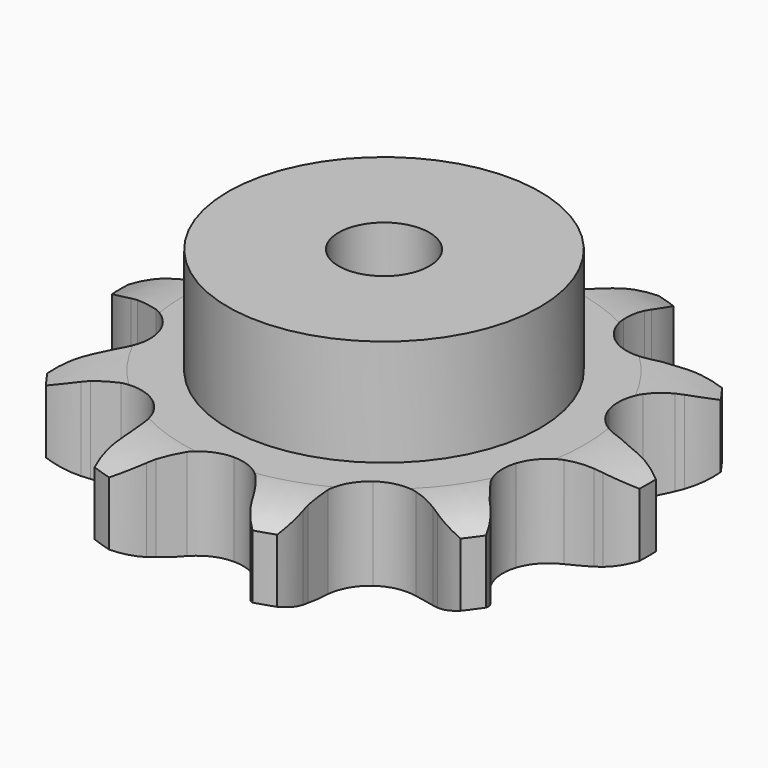
from build123d import *

# Parameters (mm, degrees)
PAD_DEPTH         = 16.2
SKETCH001_R       = 27.5
PAD001_DEPTH      = 35
SKETCH002_R       = 8
POCKET_DEPTH      = 0.0010001
POCKET_DEPTH_BACK = 35.001


with BuildPart() as part:
    # Sprocket → Pad (new body)
    with BuildSketch(Plane.XY):
        with BuildLine():
            ThreePointArc((-15.04933878, 46.3171022085), (-11.7261762277, 43.9540802016), (-9.2573481739, 40.708749649))
            Line((-9.2573481739, 40.708749649), (-8.6055571131, 39.5132802767))
            ThreePointArc((-8.6055571131, 39.5132802767), (-7.4278591747, 37.6064248117), (-6.0511104723, 35.8379132316))
            ThreePointArc((-6.0511104723, 35.8379132316), (-3.324927481, 33.8021758366), (0, 33.0802633142))
            ThreePointArc((0, 33.0802633142), (3.324927481, 33.8021758366), (6.0511104723, 35.8379132316))
            ThreePointArc((6.0511104723, 35.8379132316), (7.4278591747, 37.6064248117), (8.6055571131, 39.5132802767))
            Line((8.6055571131, 39.5132802767), (9.2573481739, 40.708749649))
            ThreePointArc((9.2573481739, 40.708749649), (11.7261762277, 43.9540802016), (15.04933878, 46.3171022085))
            ThreePointArc((15.04933878, 46.3171022085), (16.3488842734, 42.4520713076), (16.4386506874, 38.3754030178))
            Line((16.4386506874, 38.3754030178), (16.2632814658, 37.0251348062))
            ThreePointArc((16.2632814658, 37.0251348062), (16.0952375916, 34.7902228493), (16.1695456635, 32.5502343429))
            ThreePointArc((16.1695456635, 32.5502343429), (17.178497615, 29.3008780369), (19.4440909181, 26.7624951996))
            ThreePointArc((19.4440909181, 26.7624951996), (22.5583432893, 25.3921913604), (25.9604480774, 25.4367273517))
            Line((25.9604480774, 25.4367273517), (30.1873653669, 26.9086956885))
            ThreePointArc((30.1873653669, 26.9086956885), (30.7975616263, 27.2108220204), (31.4173546785, 27.4927375539))
            ThreePointArc((31.4173546785, 27.4927375539), (35.3222359678, 28.6671244028), (39.3996804342, 28.6255434253))
            ThreePointArc((39.3996804342, 28.6255434253), (38.1792266601, 24.734814067), (35.8556437154, 21.3839567657))
            Line((35.8556437154, 21.3839567657), (34.9200992933, 20.3946462777))
            ThreePointArc((34.9200992933, 20.3946462777), (33.4705006549, 18.6853382347), (32.2139849386, 16.829472277))
            ThreePointArc((32.2139849386, 16.829472277), (31.1203204977, 13.6076407273), (31.4611999858, 10.2223635425))
            ThreePointArc((31.4611999858, 10.2223635425), (33.175238691, 7.2832528334), (35.9537768801, 5.319576186))
            Line((35.9537768801, 5.319576186), (40.2386260813, 4.0259039403))
            ThreePointArc((40.2386260813, 4.0259039403), (40.9098706274, 3.9116649149), (41.5769995325, 3.7754341569))
            ThreePointArc((41.5769995325, 3.7754341569), (45.4264021269, 2.4303014419), (48.7006833084, 0))
            ThreePointArc((48.7006833084, 0), (45.4264021269, -2.4303014419), (41.5769995325, -3.7754341569))
            Line((41.5769995325, -3.7754341569), (40.2386260813, -4.0259039403))
            ThreePointArc((40.2386260813, -4.0259039403), (38.0611700885, -4.5567104943), (35.9537768801, -5.319576186))
            ThreePointArc((35.9537768801, -5.319576186), (33.175238691, -7.2832528334), (31.4611999858, -10.2223635425))
            ThreePointArc((31.4611999858, -10.2223635425), (31.1203204977, -13.6076407273), (32.2139849386, -16.829472277))
            Line((32.2139849386, -16.829472277), (34.9200992933, -20.3946462777))
            ThreePointArc((34.9200992933, -20.3946462777), (35.3959995241, -20.8816152355), (35.8556437154, -21.3839567657))
            ThreePointArc((35.8556437154, -21.3839567657), (38.1792266601, -24.734814067), (39.3996804342, -28.6255434253))
            ThreePointArc((39.3996804342, -28.6255434253), (35.3222359678, -28.6671244028), (31.4173546785, -27.4927375539))
            Line((31.4173546785, -27.4927375539), (30.1873653669, -26.9086956885))
            ThreePointArc((30.1873653669, -26.9086956885), (28.1137661999, -26.0582506914), (25.9604480774, -25.4367273517))
            ThreePointArc((25.9604480774, -25.4367273517), (22.5583432893, -25.3921913604), (19.4440909181, -26.7624951996))
            ThreePointArc((19.4440909181, -26.7624951996), (17.178497615, -29.3008780369), (16.1695456635, -32.5502343429))
            Line((16.1695456635, -32.5502343429), (16.2632814658, -37.0251348062))
            ThreePointArc((16.2632814658, -37.0251348062), (16.3620596684, -37.698828106), (16.4386506874, -38.3754030178))
            ThreePointArc((16.4386506874, -38.3754030178), (16.3488842734, -42.4520713076), (15.04933878, -46.3171022085))
            ThreePointArc((15.04933878, -46.3171022085), (11.7261762277, -43.9540802016), (9.2573481739, -40.708749649))
            Line((9.2573481739, -40.708749649), (8.6055571131, -39.5132802767))
            ThreePointArc((8.6055571131, -39.5132802767), (7.4278591747, -37.6064248117), (6.0511104723, -35.8379132316))
            ThreePointArc((6.0511104723, -35.8379132316), (3.324927481, -33.8021758366), (0, -33.0802633142))
            ThreePointArc((0, -33.0802633142), (-3.324927481, -33.8021758366), (-6.0511104723, -35.8379132316))
            Line((-6.0511104723, -35.8379132316), (-8.6055571131, -39.5132802767))
            ThreePointArc((-8.6055571131, -39.5132802767), (-8.9216308547, -40.116369976), (-9.2573481739, -40.708749649))
            ThreePointArc((-9.2573481739, -40.708749649), (-11.7261762277, -43.9540802016), (-15.04933878, -46.3171022085))
            ThreePointArc((-15.04933878, -46.3171022085), (-16.3488842734, -42.4520713076), (-16.4386506874, -38.3754030178))
            Line((-16.4386506874, -38.3754030178), (-16.2632814658, -37.0251348062))
            ThreePointArc((-16.2632814658, -37.0251348062), (-16.0952375916, -34.7902228493), (-16.1695456635, -32.5502343429))
            ThreePointArc((-16.1695456635, -32.5502343429), (-17.178497615, -29.3008780369), (-19.4440909181, -26.7624951996))
            ThreePointArc((-19.4440909181, -26.7624951996), (-22.5583432893, -25.3921913604), (-25.9604480774, -25.4367273517))
            Line((-25.9604480774, -25.4367273517), (-30.1873653669, -26.9086956885))
            ThreePointArc((-30.1873653669, -26.9086956885), (-30.7975616263, -27.2108220204), (-31.4173546785, -27.4927375539))
            ThreePointArc((-31.4173546785, -27.4927375539), (-35.3222359678, -28.6671244028), (-39.3996804342, -28.6255434253))
            ThreePointArc((-39.3996804342, -28.6255434253), (-38.1792266601, -24.734814067), (-35.8556437154, -21.3839567657))
            Line((-35.8556437154, -21.3839567657), (-34.9200992933, -20.3946462777))
            ThreePointArc((-34.9200992933, -20.3946462777), (-33.4705006549, -18.6853382347), (-32.2139849386, -16.829472277))
            ThreePointArc((-32.2139849386, -16.829472277), (-31.1203204977, -13.6076407273), (-31.4611999858, -10.2223635425))
            ThreePointArc((-31.4611999858, -10.2223635425), (-33.175238691, -7.2832528334), (-35.9537768801, -5.319576186))
            Line((-35.9537768801, -5.319576186), (-40.2386260813, -4.0259039403))
            ThreePointArc((-40.2386260813, -4.0259039403), (-40.9098706274, -3.9116649149), (-41.5769995325, -3.7754341569))
            ThreePointArc((-41.5769995325, -3.7754341569), (-45.4264021269, -2.4303014419), (-48.7006833084, 0))
            ThreePointArc((-48.7006833084, 0), (-45.4264021269, 2.4303014419), (-41.5769995325, 3.7754341569))
            Line((-41.5769995325, 3.7754341569), (-40.2386260813, 4.0259039403))
            ThreePointArc((-40.2386260813, 4.0259039403), (-38.0611700885, 4.5567104943), (-35.9537768801, 5.319576186))
            ThreePointArc((-35.9537768801, 5.319576186), (-33.175238691, 7.2832528334), (-31.4611999858, 10.2223635425))
            ThreePointArc((-31.4611999858, 10.2223635425), (-31.1203204977, 13.6076407273), (-32.2139849386, 16.829472277))
            Line((-32.2139849386, 16.829472277), (-34.9200992933, 20.3946462777))
            ThreePointArc((-34.9200992933, 20.3946462777), (-35.3959995241, 20.8816152355), (-35.8556437154, 21.3839567657))
            ThreePointArc((-35.8556437154, 21.3839567657), (-38.1792266601, 24.734814067), (-39.3996804342, 28.6255434253))
            ThreePointArc((-39.3996804342, 28.6255434253), (-35.3222359678, 28.6671244028), (-31.4173546785, 27.4927375539))
            Line((-31.4173546785, 27.4927375539), (-30.1873653669, 26.9086956885))
            ThreePointArc((-30.1873653669, 26.9086956885), (-28.1137661999, 26.0582506914), (-25.9604480774, 25.4367273517))
            ThreePointArc((-25.9604480774, 25.4367273517), (-22.5583432893, 25.3921913604), (-19.4440909181, 26.7624951996))
            ThreePointArc((-19.4440909181, 26.7624951996), (-17.178497615, 29.3008780369), (-16.1695456635, 32.5502343429))
            Line((-16.1695456635, 32.5502343429), (-16.2632814658, 37.0251348062))
            ThreePointArc((-16.2632814658, 37.0251348062), (-16.3620596684, 37.698828106), (-16.4386506874, 38.3754030178))
            ThreePointArc((-16.4386506874, 38.3754030178), (-16.3488842734, 42.4520713076), (-15.04933878, 46.3171022085))
        make_face()
    extrude(amount=PAD_DEPTH)

    # Sketch → Groove (revolve, cut)
    with BuildSketch(Plane.XZ):
        with BuildLine():
            Line((35.3757022694, 0), (46.5, 0))
            Line((57.6242977306, 0), (46.5, 0))
            Line((57.6242977306, 16.2), (57.6242977306, 0))
            Line((46.5, 16.2), (57.6242977306, 16.2))
            Line((35.3757022694, 16.2), (46.5, 16.2))
            ThreePointArc((46.5, 13.7), (41.0765793949, 15.5673017879), (35.3757022694, 16.2))
            Line((46.5, 2.5), (46.5, 13.7))
            ThreePointArc((35.3757022694, 0), (41.0765793949, 0.6326982121), (46.5, 2.5))
        make_face()
    revolve(axis=Axis((0, 0, 0), (0, 0, 1)), mode=Mode.SUBTRACT)

    # Sketch001 → Pad001 (join)
    with BuildSketch(Plane.XY):
        Circle(SKETCH001_R)
    extrude(amount=PAD001_DEPTH)

    # Sketch002 → Pocket (cut, two sides)
    with BuildSketch(Plane.XY) as pocket_sk:
        Circle(SKETCH002_R)
    extrude(amount=-POCKET_DEPTH, mode=Mode.SUBTRACT)
    extrude(pocket_sk.sketch, amount=POCKET_DEPTH_BACK, mode=Mode.SUBTRACT)


solid = part.part
